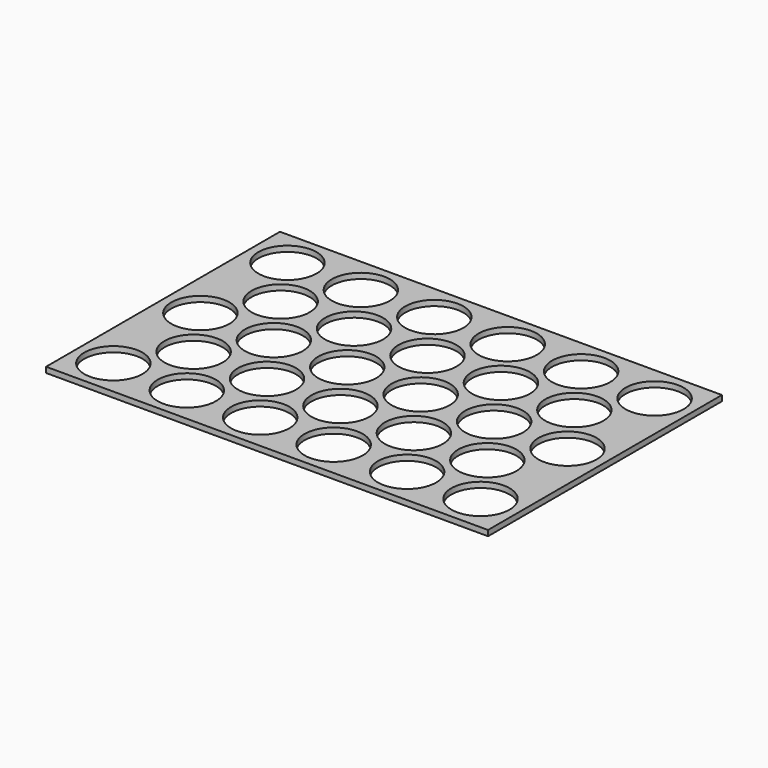
from build123d import *

# Parameters (mm, degrees)
F0_W     = 1012.825
F0_H     = 669.925
F0_R     = 66.675
F1_DEPTH = 12.7


with BuildPart() as f1:
    # F0 (on Top) → F1 (new body)
    with BuildSketch(Plane.XY):
        Rectangle(F0_W, F0_H)
        with Locations((-420.6875, -249.3645)):
            Circle(F0_R, mode=Mode.SUBTRACT)
        with Locations((-252.4125, -249.3645)):
            Circle(F0_R, mode=Mode.SUBTRACT)
        with Locations((-84.1375, -249.3645)):
            Circle(F0_R, mode=Mode.SUBTRACT)
        with Locations((-336.55, -124.714)):
            Circle(F0_R, mode=Mode.SUBTRACT)
        with Locations((-420.6875, -0.0635)):
            Circle(F0_R, mode=Mode.SUBTRACT)
        with Locations((-168.275, -124.714)):
            Circle(F0_R, mode=Mode.SUBTRACT)
        with Locations((-252.4125, -0.0635)):
            Circle(F0_R, mode=Mode.SUBTRACT)
        with Locations((-84.1375, -0.0635)):
            Circle(F0_R, mode=Mode.SUBTRACT)
        with Locations((84.1375, -249.3645)):
            Circle(F0_R, mode=Mode.SUBTRACT)
        with Locations((252.4125, -249.3645)):
            Circle(F0_R, mode=Mode.SUBTRACT)
        with Locations((420.6875, -249.3645)):
            Circle(F0_R, mode=Mode.SUBTRACT)
        with Locations((0, -124.714)):
            Circle(F0_R, mode=Mode.SUBTRACT)
        with Locations((168.275, -124.714)):
            Circle(F0_R, mode=Mode.SUBTRACT)
        with Locations((84.1375, -0.0635)):
            Circle(F0_R, mode=Mode.SUBTRACT)
        with Locations((252.4125, -0.0635)):
            Circle(F0_R, mode=Mode.SUBTRACT)
        with Locations((336.55, -124.714)):
            Circle(F0_R, mode=Mode.SUBTRACT)
        with Locations((420.6875, -0.0635)):
            Circle(F0_R, mode=Mode.SUBTRACT)
        with Locations((-336.55, 124.587)):
            Circle(F0_R, mode=Mode.SUBTRACT)
        with Locations((-168.275, 124.587)):
            Circle(F0_R, mode=Mode.SUBTRACT)
        with Locations((-420.6875, 249.2375)):
            Circle(F0_R, mode=Mode.SUBTRACT)
        with Locations((-252.4125, 249.2375)):
            Circle(F0_R, mode=Mode.SUBTRACT)
        with Locations((-84.1375, 249.2375)):
            Circle(F0_R, mode=Mode.SUBTRACT)
        with Locations((0, 124.587)):
            Circle(F0_R, mode=Mode.SUBTRACT)
        with Locations((168.275, 124.587)):
            Circle(F0_R, mode=Mode.SUBTRACT)
        with Locations((336.55, 124.587)):
            Circle(F0_R, mode=Mode.SUBTRACT)
        with Locations((84.1375, 249.2375)):
            Circle(F0_R, mode=Mode.SUBTRACT)
        with Locations((252.4125, 249.2375)):
            Circle(F0_R, mode=Mode.SUBTRACT)
        with Locations((420.6875, 249.2375)):
            Circle(F0_R, mode=Mode.SUBTRACT)
    extrude(amount=F1_DEPTH)


solid = f1.part
